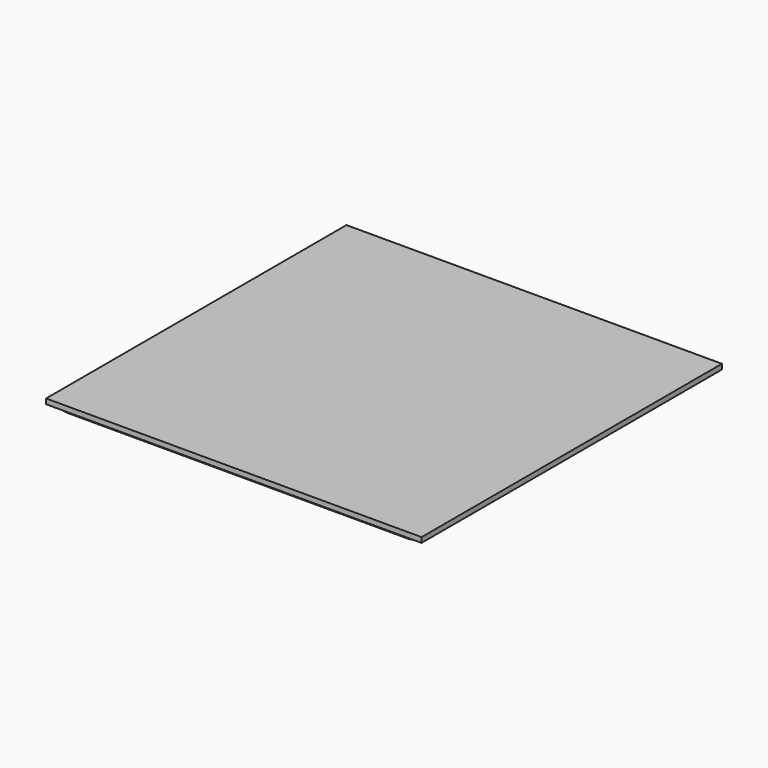
from build123d import *

# Parameters (mm, degrees)
SKETCH_W            = 110
SKETCH_H            = 110
PAD_DEPTH           = 1.5
PAD001_DEPTH        = 1
SKETCH002_R         = 6
SKETCH002_R_2       = 1.5
SKETCH002_R_3       = 5
SKETCH002_W         = 12
SKETCH002_H         = 7
SKETCH002_W_2       = 10
SKETCH002_H_2       = 1
PAD002_DEPTH        = 1
LINEARPATTERN_COUNT = 4
LINEARPATTERN_PITCH = 26.67


with BuildPart() as part:
    # Sketch → Pad (new body)
    with BuildSketch(Plane.XY):
        Rectangle(SKETCH_W, SKETCH_H)
    extrude(amount=PAD_DEPTH)

    # Sketch001 → Pad001 (join)
    with BuildSketch(Plane(origin=(0, 0, 0), x_dir=(1, 0, 0), z_dir=(0, 0, -1))):
        with BuildLine():
            Line((-49.8, 53.8), (49.8, 53.8))
            ThreePointArc((53.8, 49.8), (52.628427, 52.628427), (49.8, 53.8))
            Line((53.8, 49.8), (53.8, -49.8))
            ThreePointArc((49.8, -53.8), (52.628427, -52.628427), (53.8, -49.8))
            Line((49.8, -53.8), (-49.8, -53.8))
            ThreePointArc((-53.8, -49.8), (-52.628427, -52.628427), (-49.8, -53.8))
            Line((-53.8, -49.8), (-53.8, 49.8))
            ThreePointArc((-49.8, 53.8), (-52.628427, 52.628427), (-53.8, 49.8))
        make_face()
        with BuildLine():
            Line((-49.8, 52.8), (49.8, 52.8))
            ThreePointArc((52.8, 49.8), (51.92132, 51.92132), (49.8, 52.8))
            Line((52.8, 49.8), (52.8, -49.8))
            ThreePointArc((49.8, -52.8), (51.92132, -51.92132), (52.8, -49.8))
            Line((49.8, -52.8), (-49.8, -52.8))
            ThreePointArc((-52.8, -49.8), (-51.92132, -51.92132), (-49.8, -52.8))
            Line((-52.8, -49.8), (-52.8, 49.8))
            ThreePointArc((-49.8, 52.8), (-51.92132, 51.92132), (-52.8, 49.8))
        make_face(mode=Mode.SUBTRACT)
    extrude(amount=PAD001_DEPTH)

    # Sketch002 → Pad002 (join)
    with BuildSketch(Plane(origin=(0, 0, 0), x_dir=(1, 0, 0), z_dir=(0, 0, -1))):
        with Locations((-40.005, 40.005)):
            Circle(SKETCH002_R)
        with BuildLine():
            ThreePointArc((-36.42415, 36.515371), (-43.218938, 43.835222), (-37.190194, 35.872583))
            Line((-37.190194, 35.872583), (-38.925721, 37.940903))
            ThreePointArc((-38.888744, 38.363553), (-38.994766, 38.159886), (-38.925721, 37.940903))
            Line((-38.888744, 38.363553), (-38.582326, 38.620668))
            ThreePointArc((-38.159676, 38.583691), (-38.363343, 38.689713), (-38.582326, 38.620668))
            Line((-36.42415, 36.515371), (-38.159676, 38.583691))
        make_face(mode=Mode.SUBTRACT)
        with Locations((-40.005, 49.505)):
            Circle(SKETCH002_R_2)
        with Locations((-40.005, 25)):
            Circle(SKETCH002_R_2)
        with Locations((-40.005, -30.505)):
            Circle(SKETCH002_R_2)
        with Locations((-40.005, -40.005)):
            Circle(SKETCH002_R_3)
        with BuildLine():
            ThreePointArc((-39.255, 18.1), (-40.005, 18.85), (-40.755, 18.1))
            Line((-40.755, 18.1), (-40.755, 4.5))
            Line((-40.755, 4.5), (-39.255, 4.5))
            Line((-39.255, 18.1), (-39.255, 4.5))
        make_face()
        with BuildLine():
            ThreePointArc((-40.755, -18.1), (-40.005, -18.85), (-39.255, -18.1))
            Line((-39.255, -4.5), (-39.255, -18.1))
            Line((-40.755, -4.5), (-39.255, -4.5))
            Line((-40.755, -18.1), (-40.755, -4.5))
        make_face()
        with Locations((-40.005, 0)):
            Rectangle(SKETCH002_W, SKETCH002_H)
        with Locations((-40.005, 0)):
            Rectangle(SKETCH002_W_2, SKETCH002_H_2, mode=Mode.SUBTRACT)
    pad002 = extrude(amount=PAD002_DEPTH)

    # LinearPattern: Pad002 ×4
    with Locations(*[(i * LINEARPATTERN_PITCH, 0, 0) for i in range(1, LINEARPATTERN_COUNT)]):
        add(pad002)


solid = part.part
